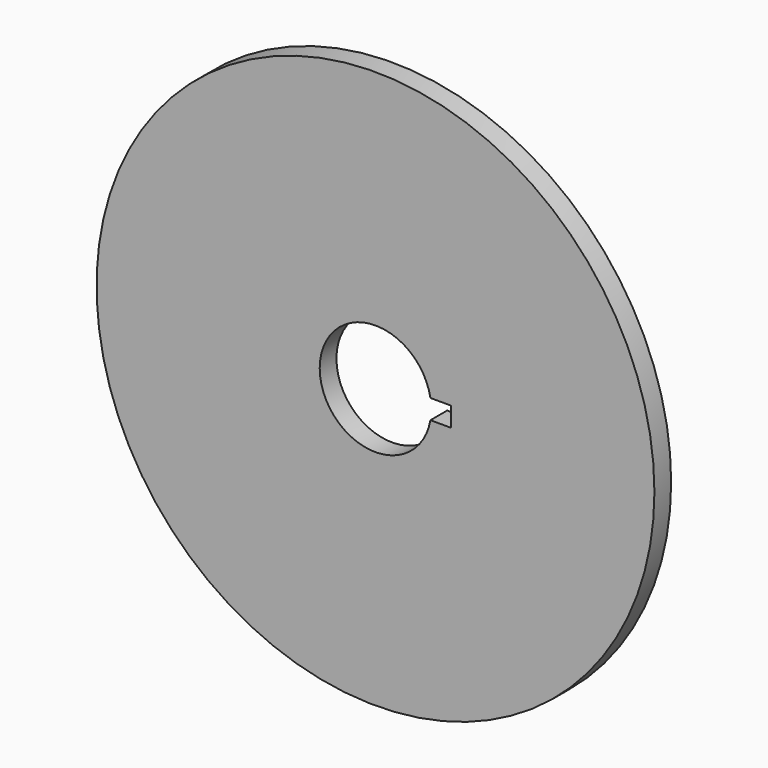
from build123d import *

# Parameters (mm, degrees)
F0_R     = 40
F0_R_2   = 8
F1_DEPTH = 3
F3_DEPTH = 3


with BuildPart() as f1:
    # F0 (on Front) → F1 (new body)
    with BuildSketch(Plane.XZ):
        Circle(F0_R)
        Circle(F0_R_2, mode=Mode.SUBTRACT)
    extrude(amount=F1_DEPTH)

    # F2 (on face) → F3 (cut, through all)
    with BuildSketch(Plane.XZ.offset(3)):
        with BuildLine():
            Line((10.8, -1.4), (10.8, 1.4))
            Line((10.8, 1.4), (7.876547, 1.4))
            ThreePointArc((7.876547, 1.4), (7.969077, 0.702716), (8, 0))
            ThreePointArc((8, 0), (7.969077, -0.702716), (7.876547, -1.4))
            Line((7.876547, -1.4), (10.8, -1.4))
        make_face()
    extrude(amount=-F3_DEPTH, mode=Mode.SUBTRACT)


solid = f1.part
